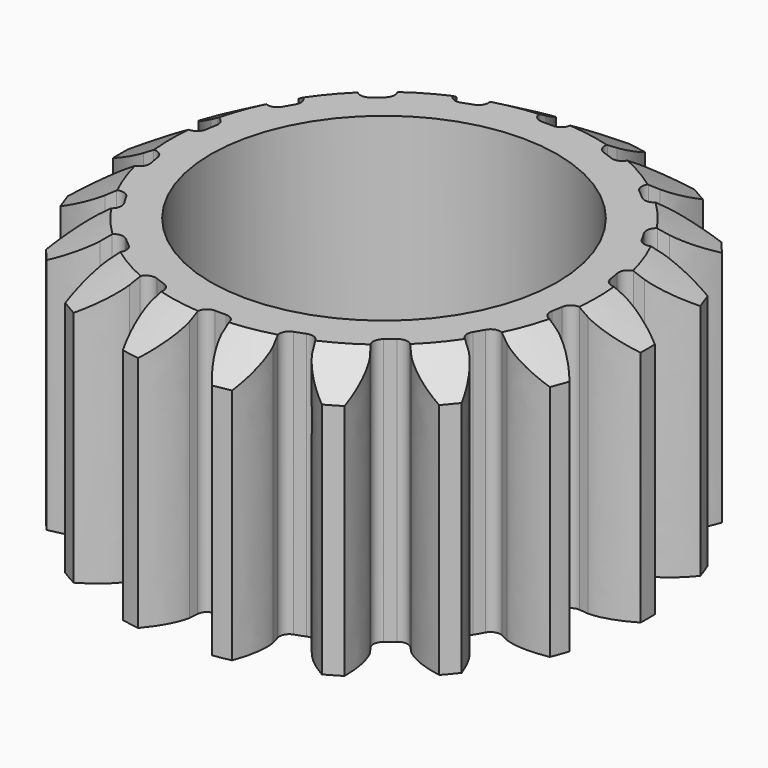
from build123d import *

# Parameters (mm, degrees)
PAD005_DEPTH    = 10
SKETCH010_R     = 6.5
POCKET006_DEPTH = 10


with BuildPart() as part:
    # InvoluteGear002 → Pad005 (new body)
    with BuildSketch(Plane.XY):
        with BuildLine():
            Line((7.993275, -0.819533), (8.345693, -0.854957))
            add(Edge.make_bspline(
                [(8.345693, -0.854957), (8.420665, -0.85662), (8.720836, -0.852882), (9.247051, -0.721002), (9.894214, -0.33635)],
                knots=[0, 0, 0, 0, 0, 1, 1, 1, 1, 1], degree=4))
            ThreePointArc((9.894214, -0.33635), (9.899929, 0), (9.894214, 0.33635))
            add(Edge.make_bspline(
                [(9.894214, 0.33635), (9.247051, 0.721002), (8.720836, 0.852882), (8.420665, 0.85662), (8.345693, 0.854957)],
                knots=[0, 0, 0, 0, 0, 1, 1, 1, 1, 1], degree=4))
            Line((8.345693, 0.854957), (7.993275, 0.819533))
            ThreePointArc((7.993275, 0.819533), (7.727898, 0.895479), (7.588293, 1.133605))
            ThreePointArc((7.588293, 1.133605), (7.555937, 1.332316), (7.518379, 1.530109))
            ThreePointArc((7.518379, 1.530109), (7.568121, 1.801621), (7.791519, 1.963752))
            Line((7.791519, 1.963752), (8.134799, 2.050998))
            add(Edge.make_bspline(
                [(8.134799, 2.050998), (8.205818, 2.075077), (8.486608, 2.181255), (8.935983, 2.485158), (9.412558, 3.067955)],
                knots=[0, 0, 0, 0, 0, 1, 1, 1, 1, 1], degree=4))
            ThreePointArc((9.412558, 3.067955), (9.30289, 3.385975), (9.182481, 3.700086))
            add(Edge.make_bspline(
                [(9.182481, 3.700086), (8.442789, 3.840198), (7.903202, 3.784148), (7.619855, 3.684996), (7.549974, 3.657792)],
                knots=[0, 0, 0, 0, 0, 1, 1, 1, 1, 1], degree=4))
            Line((7.549974, 3.657792), (7.230925, 3.503971))
            ThreePointArc((7.230925, 3.503971), (6.955577, 3.484572), (6.742948, 3.660589))
            ThreePointArc((6.742948, 3.660589), (6.64458, 3.83625), (6.541637, 4.009269))
            ThreePointArc((6.541637, 4.009269), (6.495516, 4.28142), (6.64999, 4.510179))
            Line((6.64999, 4.510179), (6.942728, 4.709573))
            add(Edge.make_bspline(
                [(6.942728, 4.709573), (7.001228, 4.75649), (7.22877, 4.9523), (7.547103, 5.391571), (7.795609, 6.102219)],
                knots=[0, 0, 0, 0, 0, 1, 1, 1, 1, 1], degree=4))
            ThreePointArc((7.795609, 6.102219), (7.583786, 6.363552), (7.363206, 6.617537))
            add(Edge.make_bspline(
                [(7.363206, 6.617537), (6.620201, 6.496209), (6.132326, 6.258991), (5.899979, 6.068908), (5.843616, 6.019443)],
                knots=[0, 0, 0, 0, 0, 1, 1, 1, 1, 1], degree=4))
            Line((5.843616, 6.019443), (5.596418, 5.765777))
            ThreePointArc((5.596418, 5.765777), (5.34431, 5.653374), (5.084303, 5.746053))
            ThreePointArc((5.084303, 5.746053), (4.931788, 5.877476), (4.775877, 6.004853))
            ThreePointArc((4.775877, 6.004853), (4.639457, 6.244816), (4.706374, 6.512613))
            Line((4.706374, 6.512613), (4.913261, 6.800104))
            add(Edge.make_bspline(
                [(4.913261, 6.800104), (4.952187, 6.864199), (5.099035, 7.126024), (5.247932, 7.647681), (5.238395, 8.400465)],
                knots=[0, 0, 0, 0, 0, 1, 1, 1, 1, 1], degree=4))
            ThreePointArc((5.238395, 8.400465), (4.949965, 8.57359), (4.655819, 8.736816))
            add(Edge.make_bspline(
                [(4.655819, 8.736816), (3.99912, 8.368682), (3.6218, 7.978906), (3.468478, 7.720819), (3.432432, 7.655061)],
                knots=[0, 0, 0, 0, 0, 1, 1, 1, 1, 1], degree=4))
            Line((3.432432, 7.655061), (3.286901, 7.332146))
            ThreePointArc((3.286901, 7.332146), (3.088441, 7.140296), (2.812416, 7.138457))
            ThreePointArc((2.812416, 7.138457), (2.62415, 7.209792), (2.434076, 7.276162))
            ThreePointArc((2.434076, 7.276162), (2.223811, 7.454995), (2.195101, 7.729529))
            Line((2.195101, 7.729529), (2.291183, 8.070442))
            add(Edge.make_bspline(
                [(2.291183, 8.070442), (2.305839, 8.143985), (2.354282, 8.440245), (2.315782, 8.981367), (2.049353, 9.685492)],
                knots=[0, 0, 0, 0, 0, 1, 1, 1, 1, 1], degree=4))
            ThreePointArc((2.049353, 9.685492), (1.719105, 9.749527), (1.386872, 9.802305))
            add(Edge.make_bspline(
                [(1.386872, 9.802305), (0.895686, 9.231769), (0.674432, 8.736448), (0.618627, 8.441486), (0.607246, 8.367365)],
                knots=[0, 0, 0, 0, 0, 1, 1, 1, 1, 1], degree=4))
            Line((0.607246, 8.367365), (0.580935, 8.01415))
            ThreePointArc((0.580935, 8.01415), (0.46006, 7.765992), (0.201311, 7.669859))
            ThreePointArc((0.201311, 7.669859), (0, 7.6725), (-0.201311, 7.669859))
            ThreePointArc((-0.201311, 7.669859), (-0.46006, 7.765992), (-0.580935, 8.01415))
            Line((-0.580935, 8.01415), (-0.607246, 8.367365))
            add(Edge.make_bspline(
                [(-0.607246, 8.367365), (-0.618627, 8.441486), (-0.674432, 8.736448), (-0.895686, 9.231769), (-1.386872, 9.802305)],
                knots=[0, 0, 0, 0, 0, 1, 1, 1, 1, 1], degree=4))
            ThreePointArc((-1.386872, 9.802305), (-1.719105, 9.749527), (-2.049353, 9.685492))
            add(Edge.make_bspline(
                [(-2.049353, 9.685492), (-2.315782, 8.981367), (-2.354282, 8.440245), (-2.305839, 8.143985), (-2.291183, 8.070442)],
                knots=[0, 0, 0, 0, 0, 1, 1, 1, 1, 1], degree=4))
            Line((-2.291183, 8.070442), (-2.195101, 7.729529))
            ThreePointArc((-2.195101, 7.729529), (-2.223811, 7.454995), (-2.434076, 7.276162))
            ThreePointArc((-2.434076, 7.276162), (-2.62415, 7.209792), (-2.812416, 7.138457))
            ThreePointArc((-2.812416, 7.138457), (-3.088441, 7.140296), (-3.286901, 7.332146))
            Line((-3.286901, 7.332146), (-3.432432, 7.655061))
            add(Edge.make_bspline(
                [(-3.432432, 7.655061), (-3.468478, 7.720819), (-3.6218, 7.978906), (-3.99912, 8.368682), (-4.655819, 8.736816)],
                knots=[0, 0, 0, 0, 0, 1, 1, 1, 1, 1], degree=4))
            ThreePointArc((-4.655819, 8.736816), (-4.949965, 8.57359), (-5.238395, 8.400465))
            add(Edge.make_bspline(
                [(-5.238395, 8.400465), (-5.247932, 7.647681), (-5.099035, 7.126024), (-4.952187, 6.864199), (-4.913261, 6.800104)],
                knots=[0, 0, 0, 0, 0, 1, 1, 1, 1, 1], degree=4))
            Line((-4.913261, 6.800104), (-4.706374, 6.512613))
            ThreePointArc((-4.706374, 6.512613), (-4.639457, 6.244816), (-4.775877, 6.004853))
            ThreePointArc((-4.775877, 6.004853), (-4.931788, 5.877476), (-5.084303, 5.746053))
            ThreePointArc((-5.084303, 5.746053), (-5.34431, 5.653374), (-5.596418, 5.765777))
            Line((-5.596418, 5.765777), (-5.843616, 6.019443))
            add(Edge.make_bspline(
                [(-5.843616, 6.019443), (-5.899979, 6.068908), (-6.132326, 6.258991), (-6.620201, 6.496209), (-7.363206, 6.617537)],
                knots=[0, 0, 0, 0, 0, 1, 1, 1, 1, 1], degree=4))
            ThreePointArc((-7.363206, 6.617537), (-7.583786, 6.363552), (-7.795609, 6.102219))
            add(Edge.make_bspline(
                [(-7.795609, 6.102219), (-7.547103, 5.391571), (-7.22877, 4.9523), (-7.001228, 4.75649), (-6.942728, 4.709573)],
                knots=[0, 0, 0, 0, 0, 1, 1, 1, 1, 1], degree=4))
            Line((-6.942728, 4.709573), (-6.64999, 4.510179))
            ThreePointArc((-6.64999, 4.510179), (-6.495516, 4.28142), (-6.541637, 4.009269))
            ThreePointArc((-6.541637, 4.009269), (-6.64458, 3.83625), (-6.742948, 3.660589))
            ThreePointArc((-6.742948, 3.660589), (-6.955577, 3.484572), (-7.230925, 3.503971))
            Line((-7.230925, 3.503971), (-7.549974, 3.657792))
            add(Edge.make_bspline(
                [(-7.549974, 3.657792), (-7.619855, 3.684996), (-7.903202, 3.784148), (-8.442789, 3.840198), (-9.182481, 3.700086)],
                knots=[0, 0, 0, 0, 0, 1, 1, 1, 1, 1], degree=4))
            ThreePointArc((-9.182481, 3.700086), (-9.30289, 3.385975), (-9.412558, 3.067955))
            add(Edge.make_bspline(
                [(-9.412558, 3.067955), (-8.935983, 2.485158), (-8.486608, 2.181255), (-8.205818, 2.075077), (-8.134799, 2.050998)],
                knots=[0, 0, 0, 0, 0, 1, 1, 1, 1, 1], degree=4))
            Line((-8.134799, 2.050998), (-7.791519, 1.963752))
            ThreePointArc((-7.791519, 1.963752), (-7.568121, 1.801621), (-7.518379, 1.530109))
            ThreePointArc((-7.518379, 1.530109), (-7.555937, 1.332316), (-7.588293, 1.133605))
            ThreePointArc((-7.588293, 1.133605), (-7.727898, 0.895479), (-7.993275, 0.819533))
            Line((-7.993275, 0.819533), (-8.345693, 0.854957))
            add(Edge.make_bspline(
                [(-8.345693, 0.854957), (-8.420665, 0.85662), (-8.720836, 0.852882), (-9.247051, 0.721002), (-9.894214, 0.33635)],
                knots=[0, 0, 0, 0, 0, 1, 1, 1, 1, 1], degree=4))
            ThreePointArc((-9.894214, 0.33635), (-9.899929, 0), (-9.894214, -0.33635))
            add(Edge.make_bspline(
                [(-9.894214, -0.33635), (-9.247051, -0.721002), (-8.720836, -0.852882), (-8.420665, -0.85662), (-8.345693, -0.854957)],
                knots=[0, 0, 0, 0, 0, 1, 1, 1, 1, 1], degree=4))
            Line((-8.345693, -0.854957), (-7.993275, -0.819533))
            ThreePointArc((-7.993275, -0.819533), (-7.727898, -0.895479), (-7.588293, -1.133605))
            ThreePointArc((-7.588293, -1.133605), (-7.555937, -1.332316), (-7.518379, -1.530109))
            ThreePointArc((-7.518379, -1.530109), (-7.568121, -1.801621), (-7.791519, -1.963752))
            Line((-7.791519, -1.963752), (-8.134799, -2.050998))
            add(Edge.make_bspline(
                [(-8.134799, -2.050998), (-8.205818, -2.075077), (-8.486608, -2.181255), (-8.935983, -2.485158), (-9.412558, -3.067955)],
                knots=[0, 0, 0, 0, 0, 1, 1, 1, 1, 1], degree=4))
            ThreePointArc((-9.412558, -3.067955), (-9.30289, -3.385975), (-9.182481, -3.700086))
            add(Edge.make_bspline(
                [(-9.182481, -3.700086), (-8.442789, -3.840198), (-7.903202, -3.784148), (-7.619855, -3.684996), (-7.549974, -3.657792)],
                knots=[0, 0, 0, 0, 0, 1, 1, 1, 1, 1], degree=4))
            Line((-7.549974, -3.657792), (-7.230925, -3.503971))
            ThreePointArc((-7.230925, -3.503971), (-6.955577, -3.484572), (-6.742948, -3.660589))
            ThreePointArc((-6.742948, -3.660589), (-6.64458, -3.83625), (-6.541637, -4.009269))
            ThreePointArc((-6.541637, -4.009269), (-6.495516, -4.28142), (-6.64999, -4.510179))
            Line((-6.64999, -4.510179), (-6.942728, -4.709573))
            add(Edge.make_bspline(
                [(-6.942728, -4.709573), (-7.001228, -4.75649), (-7.22877, -4.9523), (-7.547103, -5.391571), (-7.795609, -6.102219)],
                knots=[0, 0, 0, 0, 0, 1, 1, 1, 1, 1], degree=4))
            ThreePointArc((-7.795609, -6.102219), (-7.583786, -6.363552), (-7.363206, -6.617537))
            add(Edge.make_bspline(
                [(-7.363206, -6.617537), (-6.620201, -6.496209), (-6.132326, -6.258991), (-5.899979, -6.068908), (-5.843616, -6.019443)],
                knots=[0, 0, 0, 0, 0, 1, 1, 1, 1, 1], degree=4))
            Line((-5.843616, -6.019443), (-5.596418, -5.765777))
            ThreePointArc((-5.596418, -5.765777), (-5.34431, -5.653374), (-5.084303, -5.746053))
            ThreePointArc((-5.084303, -5.746053), (-4.931788, -5.877476), (-4.775877, -6.004853))
            ThreePointArc((-4.775877, -6.004853), (-4.639457, -6.244816), (-4.706374, -6.512613))
            Line((-4.706374, -6.512613), (-4.913261, -6.800104))
            add(Edge.make_bspline(
                [(-4.913261, -6.800104), (-4.952187, -6.864199), (-5.099035, -7.126024), (-5.247932, -7.647681), (-5.238395, -8.400465)],
                knots=[0, 0, 0, 0, 0, 1, 1, 1, 1, 1], degree=4))
            ThreePointArc((-5.238395, -8.400465), (-4.949965, -8.57359), (-4.655819, -8.736816))
            add(Edge.make_bspline(
                [(-4.655819, -8.736816), (-3.99912, -8.368682), (-3.6218, -7.978906), (-3.468478, -7.720819), (-3.432432, -7.655061)],
                knots=[0, 0, 0, 0, 0, 1, 1, 1, 1, 1], degree=4))
            Line((-3.432432, -7.655061), (-3.286901, -7.332146))
            ThreePointArc((-3.286901, -7.332146), (-3.088441, -7.140296), (-2.812416, -7.138457))
            ThreePointArc((-2.812416, -7.138457), (-2.62415, -7.209792), (-2.434076, -7.276162))
            ThreePointArc((-2.434076, -7.276162), (-2.223811, -7.454995), (-2.195101, -7.729529))
            Line((-2.195101, -7.729529), (-2.291183, -8.070442))
            add(Edge.make_bspline(
                [(-2.291183, -8.070442), (-2.305839, -8.143985), (-2.354282, -8.440245), (-2.315782, -8.981367), (-2.049353, -9.685492)],
                knots=[0, 0, 0, 0, 0, 1, 1, 1, 1, 1], degree=4))
            ThreePointArc((-2.049353, -9.685492), (-1.719105, -9.749527), (-1.386872, -9.802305))
            add(Edge.make_bspline(
                [(-1.386872, -9.802305), (-0.895686, -9.231769), (-0.674432, -8.736448), (-0.618627, -8.441486), (-0.607246, -8.367365)],
                knots=[0, 0, 0, 0, 0, 1, 1, 1, 1, 1], degree=4))
            Line((-0.607246, -8.367365), (-0.580935, -8.01415))
            ThreePointArc((-0.580935, -8.01415), (-0.46006, -7.765992), (-0.201311, -7.669859))
            ThreePointArc((-0.201311, -7.669859), (0, -7.6725), (0.201311, -7.669859))
            ThreePointArc((0.201311, -7.669859), (0.46006, -7.765992), (0.580935, -8.01415))
            Line((0.580935, -8.01415), (0.607246, -8.367365))
            add(Edge.make_bspline(
                [(0.607246, -8.367365), (0.618627, -8.441486), (0.674432, -8.736448), (0.895686, -9.231769), (1.386872, -9.802305)],
                knots=[0, 0, 0, 0, 0, 1, 1, 1, 1, 1], degree=4))
            ThreePointArc((1.386872, -9.802305), (1.719105, -9.749527), (2.049353, -9.685492))
            add(Edge.make_bspline(
                [(2.049353, -9.685492), (2.315782, -8.981367), (2.354282, -8.440245), (2.305839, -8.143985), (2.291183, -8.070442)],
                knots=[0, 0, 0, 0, 0, 1, 1, 1, 1, 1], degree=4))
            Line((2.291183, -8.070442), (2.195101, -7.729529))
            ThreePointArc((2.195101, -7.729529), (2.223811, -7.454995), (2.434076, -7.276162))
            ThreePointArc((2.434076, -7.276162), (2.62415, -7.209792), (2.812416, -7.138457))
            ThreePointArc((2.812416, -7.138457), (3.088441, -7.140296), (3.286901, -7.332146))
            Line((3.286901, -7.332146), (3.432432, -7.655061))
            add(Edge.make_bspline(
                [(3.432432, -7.655061), (3.468478, -7.720819), (3.6218, -7.978906), (3.99912, -8.368682), (4.655819, -8.736816)],
                knots=[0, 0, 0, 0, 0, 1, 1, 1, 1, 1], degree=4))
            ThreePointArc((4.655819, -8.736816), (4.949965, -8.57359), (5.238395, -8.400465))
            add(Edge.make_bspline(
                [(5.238395, -8.400465), (5.247932, -7.647681), (5.099035, -7.126024), (4.952187, -6.864199), (4.913261, -6.800104)],
                knots=[0, 0, 0, 0, 0, 1, 1, 1, 1, 1], degree=4))
            Line((4.913261, -6.800104), (4.706374, -6.512613))
            ThreePointArc((4.706374, -6.512613), (4.639457, -6.244816), (4.775877, -6.004853))
            ThreePointArc((4.775877, -6.004853), (4.931788, -5.877476), (5.084303, -5.746053))
            ThreePointArc((5.084303, -5.746053), (5.34431, -5.653374), (5.596418, -5.765777))
            Line((5.596418, -5.765777), (5.843616, -6.019443))
            add(Edge.make_bspline(
                [(5.843616, -6.019443), (5.899979, -6.068908), (6.132326, -6.258991), (6.620201, -6.496209), (7.363206, -6.617537)],
                knots=[0, 0, 0, 0, 0, 1, 1, 1, 1, 1], degree=4))
            ThreePointArc((7.363206, -6.617537), (7.583786, -6.363552), (7.795609, -6.102219))
            add(Edge.make_bspline(
                [(7.795609, -6.102219), (7.547103, -5.391571), (7.22877, -4.9523), (7.001228, -4.75649), (6.942728, -4.709573)],
                knots=[0, 0, 0, 0, 0, 1, 1, 1, 1, 1], degree=4))
            Line((6.942728, -4.709573), (6.64999, -4.510179))
            ThreePointArc((6.64999, -4.510179), (6.495516, -4.28142), (6.541637, -4.009269))
            ThreePointArc((6.541637, -4.009269), (6.64458, -3.83625), (6.742948, -3.660589))
            ThreePointArc((6.742948, -3.660589), (6.955577, -3.484572), (7.230925, -3.503971))
            Line((7.230925, -3.503971), (7.549974, -3.657792))
            add(Edge.make_bspline(
                [(7.549974, -3.657792), (7.619855, -3.684996), (7.903202, -3.784148), (8.442789, -3.840198), (9.182481, -3.700086)],
                knots=[0, 0, 0, 0, 0, 1, 1, 1, 1, 1], degree=4))
            ThreePointArc((9.182481, -3.700086), (9.30289, -3.385975), (9.412558, -3.067955))
            add(Edge.make_bspline(
                [(9.412558, -3.067955), (8.935983, -2.485158), (8.486608, -2.181255), (8.205818, -2.075077), (8.134799, -2.050998)],
                knots=[0, 0, 0, 0, 0, 1, 1, 1, 1, 1], degree=4))
            Line((8.134799, -2.050998), (7.791519, -1.963752))
            ThreePointArc((7.791519, -1.963752), (7.568121, -1.801621), (7.518379, -1.530109))
            ThreePointArc((7.518379, -1.530109), (7.555937, -1.332316), (7.588293, -1.133605))
            ThreePointArc((7.588293, -1.133605), (7.727898, -0.895479), (7.993275, -0.819533))
        make_face()
    extrude(amount=PAD005_DEPTH)

    # Sketch010 (on Face146 of Pad005) → Pocket006 (cut)
    with BuildSketch(Plane.XY.offset(10)):
        Circle(SKETCH010_R)
    extrude(amount=-POCKET006_DEPTH, mode=Mode.SUBTRACT)

    # Sketch028 → Groove004 (revolve, cut)
    with BuildSketch(Plane.XZ):
        Polygon((10.25, 10.01), (10.25, 8.710962), (8, 10.01), (9, 10.01), align=None)
    revolve(axis=Axis((0, 0, 0), (0, 0, 1)), mode=Mode.SUBTRACT)


with BuildPart() as part_1:
    # Body003 placement: moved
    add(part.part.moved(Location((0, 0, 10))))


solid = part_1.part
